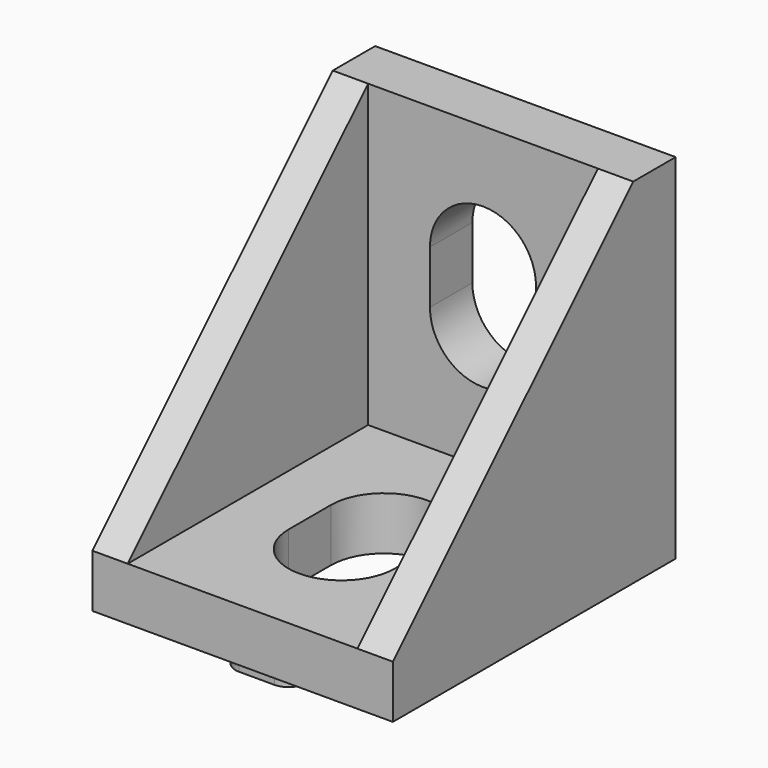
from build123d import *

# Parameters (mm, degrees)
PAD_DEPTH       = 17
SKETCH001_W     = 17
SKETCH001_H     = 13
POCKET_DEPTH    = 17
POCKET001_DEPTH = 3
POCKET002_DEPTH = 3
PAD001_DEPTH    = 1
PAD002_DEPTH    = 1


with BuildPart() as part:
    # Sketch → Pad (new body)
    with BuildSketch(Plane.YZ):
        Polygon((0, 0), (0, 20), (-3, 20), (-20, 3), (-20, 0), align=None)
    extrude(amount=PAD_DEPTH)

    # Sketch001 (on Face4 of Pad) → Pocket (cut)
    with BuildSketch(Plane(origin=(0, -20, 0), x_dir=(0, 0, -1), z_dir=(0, -1, 0))):
        with Locations((-11.5, 8.5)):
            Rectangle(SKETCH001_W, SKETCH001_H)
    extrude(amount=-POCKET_DEPTH, mode=Mode.SUBTRACT)

    # Sketch002 (on Face8 of Pocket) → Pocket001 (cut)
    with BuildSketch(Plane(origin=(0, -3, 0), x_dir=(0, 0, -1), z_dir=(0, -1, 0))):
        with BuildLine():
            ThreePointArc((-10, 5.5), (-7, 8.5), (-10, 11.5))
            Line((-10, 11.5), (-13, 11.5))
            ThreePointArc((-13, 11.5), (-16, 8.5), (-13, 5.5))
            Line((-10, 5.5), (-13, 5.5))
        make_face()
    extrude(amount=-POCKET001_DEPTH, mode=Mode.SUBTRACT)

    # Sketch003 (on Face14 of Pocket001) → Pocket002 (cut)
    with BuildSketch(Plane(origin=(0, 0, 3), x_dir=(0, -1, 0), z_dir=(0, 0, 1))):
        with BuildLine():
            ThreePointArc((10, 11.5), (7, 8.5), (10, 5.5))
            Line((10, 5.5), (13, 5.5))
            ThreePointArc((13, 5.5), (16, 8.5), (13, 11.5))
            Line((10, 11.5), (13, 11.5))
        make_face()
    extrude(amount=-POCKET002_DEPTH, mode=Mode.SUBTRACT)

    # Sketch004 (on Face1 of Pocket002) → Pad001 (join)
    with BuildSketch(Plane.ZX):
        with BuildLine():
            ThreePointArc((4, 9.5), (3, 10.5), (2, 9.5))
            Line((2, 9.5), (2, 7.5))
            ThreePointArc((2, 7.5), (3, 6.5), (4, 7.5))
            Line((4, 9.5), (4, 7.5))
        make_face()
        with BuildLine():
            ThreePointArc((19, 9.5), (18, 10.5), (17, 9.5))
            Line((17, 9.5), (17, 7.5))
            ThreePointArc((17, 7.5), (18, 6.5), (19, 7.5))
            Line((19, 9.5), (19, 7.5))
        make_face()
    extrude(amount=PAD001_DEPTH)

    # Sketch005 (on Face2 of Pad001) → Pad002 (join)
    with BuildSketch(Plane.YX):
        with BuildLine():
            ThreePointArc((-4, 7.5), (-3, 6.5), (-2, 7.5))
            Line((-2, 7.5), (-2, 9.5))
            ThreePointArc((-2, 9.5), (-3, 10.5), (-4, 9.5))
            Line((-4, 7.5), (-4, 9.5))
        make_face()
        with BuildLine():
            ThreePointArc((-17, 9.5), (-18, 10.5), (-19, 9.5))
            Line((-19, 9.5), (-19, 7.5))
            ThreePointArc((-19, 7.5), (-18, 6.5), (-17, 7.5))
            Line((-17, 9.5), (-17, 7.5))
        make_face()
    extrude(amount=PAD002_DEPTH)


solid = part.part
